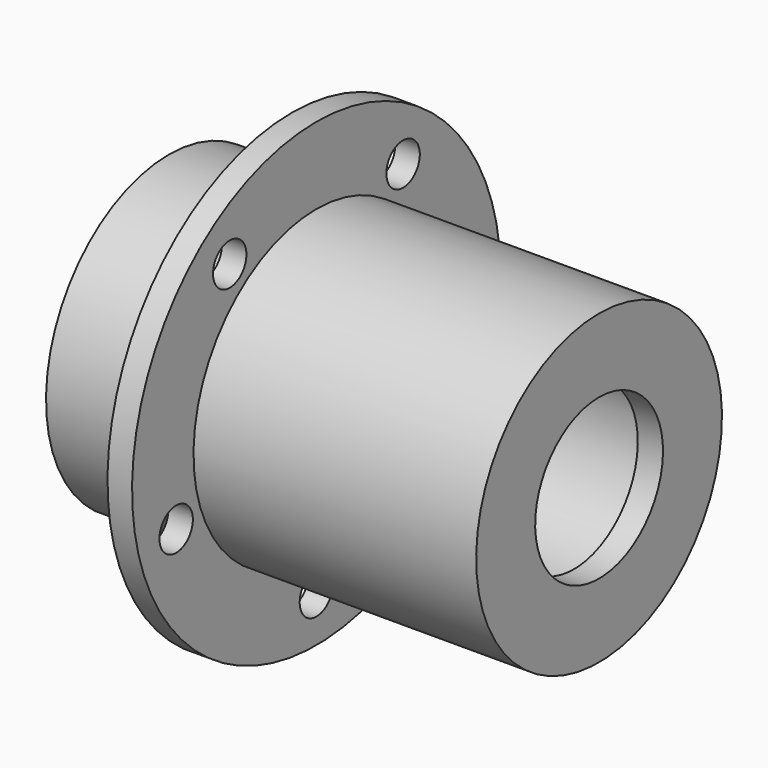
from build123d import *

# Parameters (mm, degrees)
F3_D     = 6.8
F3_DEPTH = 48.75
F3_TIP   = 2.0429261047


with BuildPart() as f1:
    # F0 (on Front) → F1 (revolve)
    with BuildSketch(Plane.XZ):
        Polygon((4, 37.5), (0, 37.5), (0, 25), (-20, 25), (-20, 16), (45.9, 16), (45.9, 13), (50, 13), (50, 25), (4, 25), align=None)
    revolve(axis=Axis((40.2727089822, 0, 0), (1, 0, 0)))

    # F3
    with Locations(Plane.YZ.offset(4)):
        with Locations((0, -30), (-28.5316954889, -9.2705098312), (17.6335575688, 24.2705098312), (-17.6335575688, 24.2705098312), (28.5316954889, -9.2705098312)):
            Hole(F3_D / 2, depth=F3_DEPTH)
            with Locations((0, 0, -(F3_DEPTH + F3_TIP / 2))):  # 118° drill point
                Cone(0, F3_D / 2, F3_TIP, mode=Mode.SUBTRACT)


solid = f1.part
